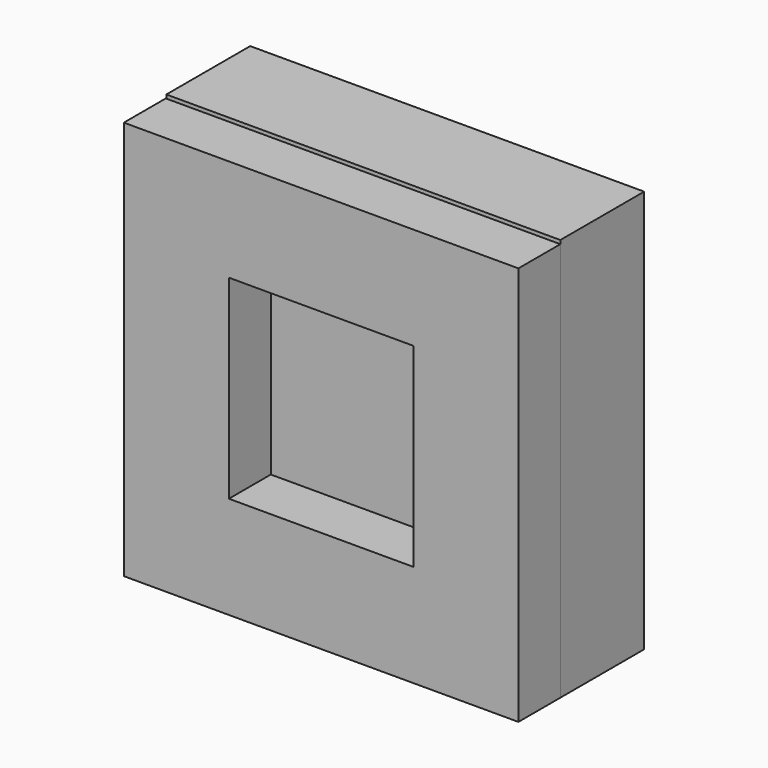
from build123d import *

# Parameters (mm, degrees)
F0_W     = 190.987497
F0_H     = 195.329547
F1_DEPTH = 25.4
F2_W     = 190.987497
F2_H     = 195.329547
F2_W_2   = 92.081398
F2_H_2   = 90.176002
F3_DEPTH = 25.4
F4_W     = 191.268652
F4_H     = 193.553298
F4_W_2   = 89.433506
F4_H_2   = 94.341778
F5_DEPTH = 25.4
F6_W     = 92.081398
F6_H     = 90.176002
F7_DEPTH = 25.4


with BuildPart() as f1:
    # F0 (on Front) → F1 (new body)
    with BuildSketch(Plane.XZ):
        with Locations((0.140578, 0.888125)):
            Rectangle(F0_W, F0_H)
    extrude(amount=F1_DEPTH)

    # F2 (on face) → F3 (join)
    with BuildSketch(Plane(origin=(0, 0, 0), x_dir=(-1, 0, 0), z_dir=(0, 1, 0))):
        with Locations((-0.140578, 0.888125)):
            Rectangle(F2_W, F2_H)
        Rectangle(F2_W_2, F2_H_2, mode=Mode.SUBTRACT)
    extrude(amount=F3_DEPTH)

    # F4 (on face) → F5 (join)
    with BuildSketch(Plane.XZ.offset(25.4)):
        Rectangle(F4_W, F4_H)
        Rectangle(F4_W_2, F4_H_2, mode=Mode.SUBTRACT)
    extrude(amount=F5_DEPTH)

    # F6 (on face) → F7 (join)
    with BuildSketch(Plane(origin=(0, 0, 0), x_dir=(-1, 0, 0), z_dir=(0, 1, 0))):
        Rectangle(F6_W, F6_H)
    extrude(amount=F7_DEPTH)


solid = f1.part
